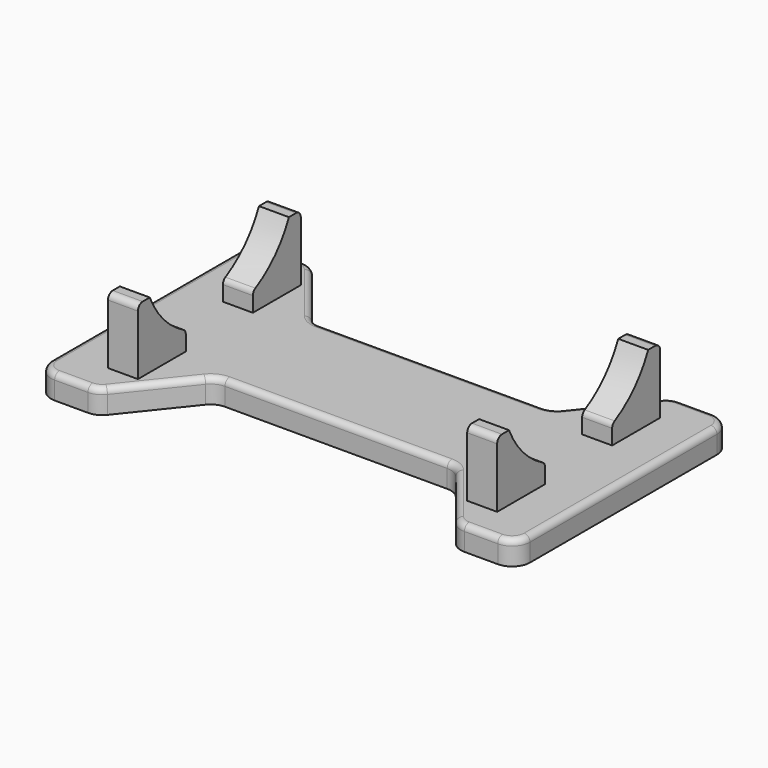
from build123d import *

# Parameters (mm, degrees)
F0_W     = 5
F0_H     = 10
F1_DEPTH = 15
F0_W_2   = 40
F0_H_2   = 20
F2_DEPTH = 4
F3_R     = 3
F5_DEPTH = 5
F6_R     = 15.85
F7_DEPTH = 5
F8_R     = 1
F8_2_R   = 1
F8_3_R   = 1
F8_4_R   = 1
F9_R     = 1


with BuildPart() as f1:
    # F0 (on Top) → F1 (new body)
    with BuildSketch(Plane.XY):
        with Locations((-30, 12)):
            Rectangle(F0_W, F0_H)
    extrude(amount=F1_DEPTH)


with BuildPart() as f1b:
    # F0 (on Top) → F1, piece 2 (new body)
    with BuildSketch(Plane.XY):
        with Locations((-30, -12)):
            Rectangle(F0_W, F0_H)
    extrude(amount=F1_DEPTH)


with BuildPart() as f1c:
    # F0 (on Top) → F1, piece 3 (new body)
    with BuildSketch(Plane.XY):
        with Locations((30, 12)):
            Rectangle(F0_W, F0_H)
    extrude(amount=F1_DEPTH)


with BuildPart() as f1d:
    # F0 (on Top) → F1, piece 4 (new body)
    with BuildSketch(Plane.XY):
        with Locations((30, -12)):
            Rectangle(F0_W, F0_H)
    extrude(amount=F1_DEPTH)


with BuildPart() as f2:
    # F0 (on Top) → F2 (new body)
    with BuildSketch(Plane.XY):
        Polygon((40, -22.5), (40, 22.5), (30, 22.5), (20, 10), (20, -10), (30, -22.5), align=None)
        with Locations((30, -12)):
            Rectangle(F0_W, F0_H, mode=Mode.SUBTRACT)
        with Locations((30, 12)):
            Rectangle(F0_W, F0_H, mode=Mode.SUBTRACT)
        Rectangle(F0_W_2, F0_H_2)
        Polygon((-20, -10), (-20, 10), (-30, 22.5), (-40, 22.5), (-40, -22.5), (-30, -22.5), align=None)
        with Locations((-30, -12)):
            Rectangle(F0_W, F0_H, mode=Mode.SUBTRACT)
        with Locations((-30, 12)):
            Rectangle(F0_W, F0_H, mode=Mode.SUBTRACT)
    extrude(amount=F2_DEPTH)

    # F3
    f3_edges = [f2.edges().sort_by_distance(p)[0] for p in [
        (-40, 22.5, 2),
        (-40, -22.5, 2),
        (40, -22.5, 2),
        (40, 22.5, 2),
        (-30, 22.5, 2),
        (30, 22.5, 2),
        (30, -22.5, 2),
        (-30, -22.5, 2),
        (-20, -10, 2),
        (-20, 10, 2),
        (20, -10, 2),
        (20, 10, 2),
    ]]
    fillet(f3_edges, radius=F3_R)

    # F9
    f9_edges = [f2.edges().sort_by_distance(p)[0] for p in [
        (0, 10, 4),
    ]]
    fillet(f9_edges, radius=F9_R)


with BuildPart() as f5_tool:
    # F4 (on face) → F5 (new body)
    with BuildSketch(Plane.YZ.offset(32.5)):
        with BuildLine():
            ThreePointArc((-7, 7.1295042281), (8.3747388019, 7.8931708787), (15.85, 21.35))
            ThreePointArc((15.85, 21.35), (-3.2436488351, 36.8645493726), (-14.5223964964, 15))
            Line((-14.5223964964, 15), (-7, 15))
            Line((-7, 15), (-7, 7.1295042281))
        make_face()
        with BuildLine():
            Line((-7, 15), (-14.5223964964, 15))
            ThreePointArc((-14.5223964964, 15), (-11.458165807, 10.398610301), (-7, 7.1295042281))
            Line((-7, 7.1295042281), (-7, 15))
        make_face()
    extrude(amount=-F5_DEPTH)


with BuildPart() as f1c_1:
    add(f1c.part)

    # F5: cut by f5_tool
    add(f5_tool.part, mode=Mode.SUBTRACT)

    # F8#2
    f8_2_edges = [f1c_1.edges().sort_by_distance(p)[0] for p in [
        (30, 17, 15),
        (30, 7, 7.129504),
    ]]
    fillet(f8_2_edges, radius=F8_2_R)


with BuildPart() as f1d_1:
    add(f1d.part)

    # F5: cut by f5_tool
    add(f5_tool.part, mode=Mode.SUBTRACT)

    # F8#4
    f8_4_edges = [f1d_1.edges().sort_by_distance(p)[0] for p in [
        (30, -17, 15),
        (30, -7, 7.129504),
    ]]
    fillet(f8_4_edges, radius=F8_4_R)


with BuildPart() as f7_tool:
    # F6 (on face) → F7 (new body)
    with BuildSketch(Plane(origin=(-32.5, 0, 0), x_dir=(0, -1, 0), z_dir=(-1, 0, 0))):
        with Locations((0, 21.35)):
            Circle(F6_R)
    extrude(amount=-F7_DEPTH)


with BuildPart() as f1_1:
    add(f1.part)

    # F7: cut by f7_tool
    add(f7_tool.part, mode=Mode.SUBTRACT)

    # F8
    f8_edges = [f1_1.edges().sort_by_distance(p)[0] for p in [
        (-30, 17, 15),
        (-30, 7, 7.129504),
    ]]
    fillet(f8_edges, radius=F8_R)


with BuildPart() as f1b_1:
    add(f1b.part)

    # F7: cut by f7_tool
    add(f7_tool.part, mode=Mode.SUBTRACT)

    # F8#3
    f8_3_edges = [f1b_1.edges().sort_by_distance(p)[0] for p in [
        (-30, -17, 15),
        (-30, -7, 7.129504),
    ]]
    fillet(f8_3_edges, radius=F8_3_R)


solid = Compound([f2.part, f1c_1.part, f1d_1.part, f1_1.part, f1b_1.part])
